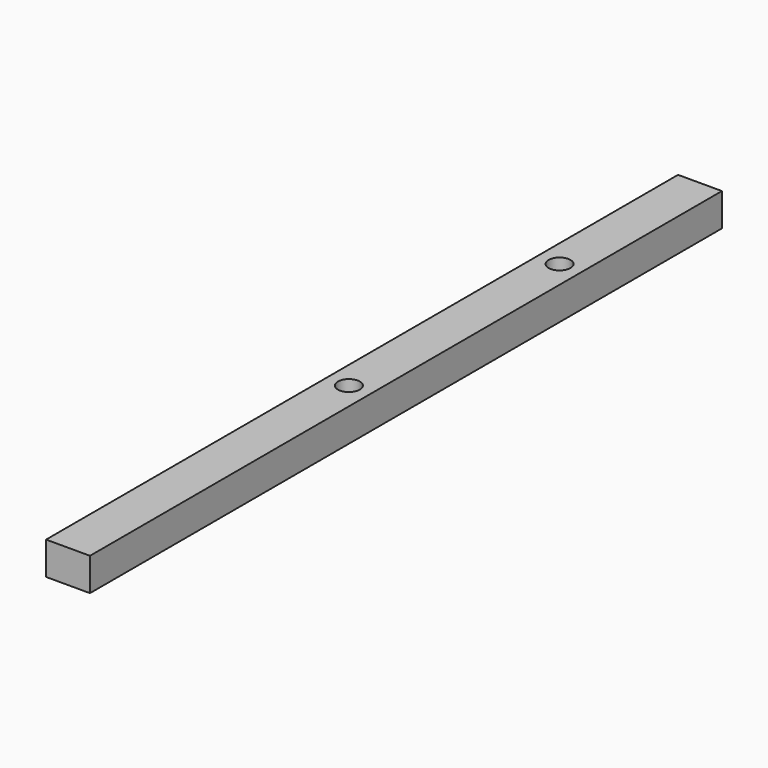
from build123d import *

# Parameters (mm, degrees)
F0_W     = 25.4
F0_H     = 19.05
F1_DEPTH = 457.2
F2_R     = 6.35
F3_DEPTH = 19.051


with BuildPart() as f1:
    # F0 (on Front) → F1 (new body)
    with BuildSketch(Plane.XZ):
        Rectangle(F0_W, F0_H)
    extrude(amount=F1_DEPTH)

    # F2 (on face) → F3 (cut, through all)
    with BuildSketch(Plane(origin=(0, 0, -9.525), x_dir=(1, 0, 0), z_dir=(0, 0, -1))):
        with Locations((0, 254)):
            Circle(F2_R)
        with Locations((0, 101.6)):
            Circle(F2_R)
    extrude(amount=-F3_DEPTH, mode=Mode.SUBTRACT)


solid = f1.part
